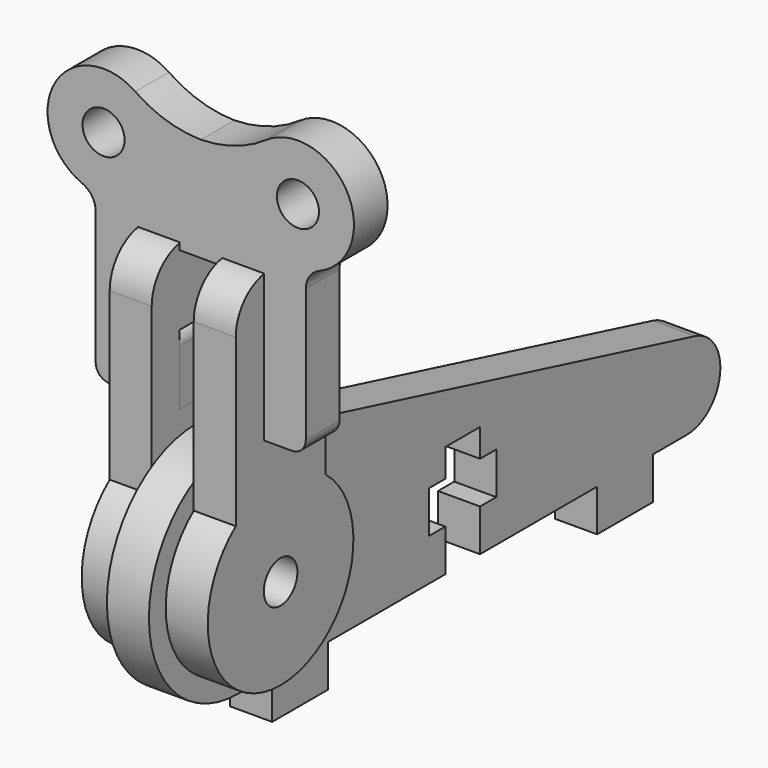
from build123d import *

# Parameters (mm, degrees)
F0_R     = 1.5
F1_DEPTH = 1.5
F2_R     = 1.5
F2_W     = 3
F2_H     = 5
F3_DEPTH = 3
F6_R     = 1.5
F7_DEPTH = 1.5


with BuildPart() as f1:
    # F0 (on Right) → F1 (new body, symmetric)
    with BuildSketch(Plane.YZ):
        with BuildLine():
            ThreePointArc((-18.0307692308, 15.7538461538), (-27.9382230137, 8.9922778767), (-20, 0))
            Line((-20, 0), (-17, 0))
            Line((-17, 0), (-17, -3))
            Line((-17, -3), (-12, -3))
            Line((-12, -3), (-12, 0))
            Line((-12, 0), (-1.55, 0))
            Line((-1.55, 0), (-1.55, 3))
            Line((-1.55, 3), (-3, 3))
            Line((-3, 3), (-3, 6))
            Line((-3, 6), (-1.55, 6))
            Line((-1.55, 6), (-1.55, 8))
            Line((-1.55, 8), (1.55, 8))
            Line((1.55, 8), (1.55, 6))
            Line((1.55, 6), (3, 6))
            Line((3, 6), (3, 3))
            Line((3, 3), (1.55, 3))
            Line((1.55, 3), (1.55, 0))
            Line((1.55, 0), (12, 0))
            Line((12, 0), (12, -3))
            Line((12, -3), (17, -3))
            Line((17, -3), (17, 0))
            Line((17, 0), (20, 0))
            ThreePointArc((20, 0), (22.9768336301, 2.6278957962), (20.7384615385, 5.9076923077))
            Line((20.7384615385, 5.9076923077), (-18.0307692308, 15.7538461538))
        make_face()
        with Locations((-20, 8)):
            Circle(F0_R, mode=Mode.SUBTRACT)
    extrude(amount=F1_DEPTH, both=True)


with BuildPart() as f3:
    # F2 (on face) → F3 (new body)
    with BuildSketch(Plane.YZ.offset(1.5)):
        with BuildLine():
            Line((-24, 25), (-24, 13.123475383))
            ThreePointArc((-24, 13.123475383), (-20, 1.5), (-16, 13.123475383))
            Line((-16, 13.123475383), (-16, 25))
            ThreePointArc((-16, 25), (-16.8786796564, 27.1213203436), (-19, 28))
            Line((-19, 28), (-21, 28))
            ThreePointArc((-21, 28), (-23.1213203436, 27.1213203436), (-24, 25))
        make_face()
        with Locations((-20, 8)):
            Circle(F2_R, mode=Mode.SUBTRACT)
        with Locations((-20, 20)):
            Rectangle(F2_W, F2_H, mode=Mode.SUBTRACT)
    extrude(amount=F3_DEPTH)


with BuildPart() as f4_1:
    # F4: copy of F3
    add(f3.part.moved(Location((-6, 0, 0))))


with BuildPart() as f7:
    # F6 (on mid) → F7 (new body, symmetric)
    with BuildSketch(Plane.XZ.offset(20)):
        with BuildLine():
            Line((-1.5, 27.5), (0, 27.5))
            Line((0, 27.5), (1.5, 27.5))
            Line((1.5, 27.5), (1.5, 28))
            Line((1.5, 28), (4.5, 28))
            Line((4.5, 28), (4.5, 22.5))
            Line((4.5, 22.5), (2.5, 22.5))
            ThreePointArc((2.5, 22.5), (1.7928932188, 22.2071067812), (1.5, 21.5))
            Line((1.5, 21.5), (1.5, 17.5))
            Line((1.5, 17.5), (6.5, 17.5))
            ThreePointArc((6.5, 17.5), (7.2071067812, 17.7928932188), (7.5, 18.5))
            Line((7.5, 18.5), (7.5, 28))
            ThreePointArc((7.5, 28), (7.7642483896, 28.8707034665), (8.467849579, 29.4476758264))
            ThreePointArc((8.467849579, 29.4476758264), (10.4533730988, 35.0543338844), (4.6684914665, 36.4371074477))
            ThreePointArc((4.6684914665, 36.4371074477), (2.4448172997, 35.3432914483), (0, 34.9382869899))
            ThreePointArc((0, 34.9382869899), (-2.4448172997, 35.3432914483), (-4.6684914665, 36.4371074477))
            ThreePointArc((-4.6684914665, 36.4371074477), (-10.4533730988, 35.0543338844), (-8.467849579, 29.4476758264))
            ThreePointArc((-8.467849579, 29.4476758264), (-7.7642483896, 28.8707034665), (-7.5, 28))
            Line((-7.5, 28), (-7.5, 18.5))
            ThreePointArc((-7.5, 18.5), (-7.2071067812, 17.7928932188), (-6.5, 17.5))
            Line((-6.5, 17.5), (-1.5, 17.5))
            Line((-1.5, 17.5), (-1.5, 21.5))
            ThreePointArc((-1.5, 21.5), (-1.7928932188, 22.2071067812), (-2.5, 22.5))
            Line((-2.5, 22.5), (-4.5, 22.5))
            Line((-4.5, 22.5), (-4.5, 28))
            Line((-4.5, 28), (-1.5, 28))
            Line((-1.5, 28), (-1.5, 27.5))
        make_face()
        with Locations((-6.9390341268, 33.1439879498)):
            Circle(F6_R, mode=Mode.SUBTRACT)
        with Locations((6.9390341268, 33.1439879498)):
            Circle(F6_R, mode=Mode.SUBTRACT)
    extrude(amount=F7_DEPTH, both=True)


solid = Compound([f1.part, f3.part, f4_1.part, f7.part])
